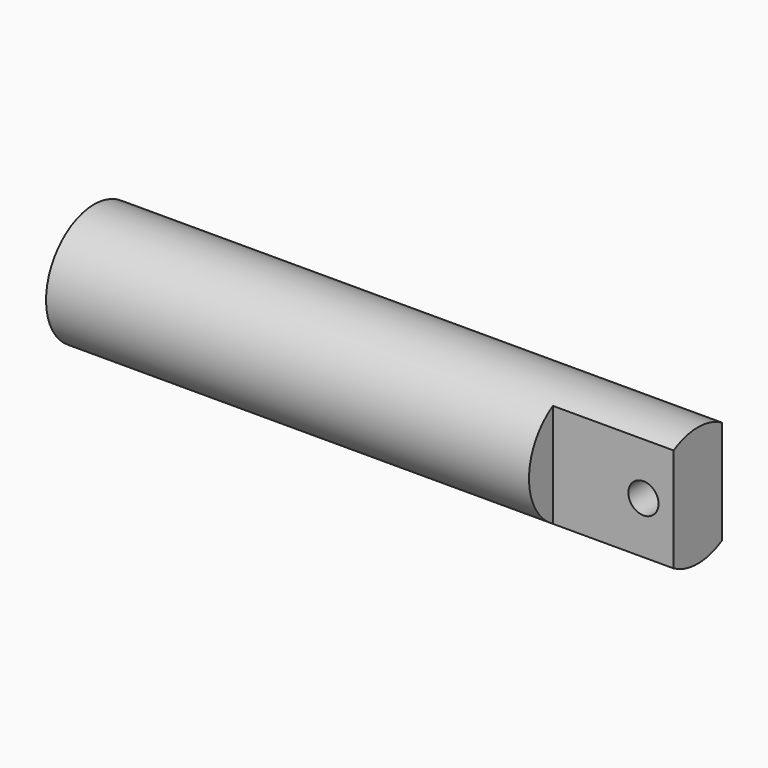
from build123d import *

# Parameters (mm, degrees)
F0_W     = 5
F0_H     = 0.4975
F5_DEPTH = 1
F6_R     = 0.125
F7_DEPTH = 25


with BuildPart() as f1:
    # F0 (on Front) → F1 (revolve)
    with BuildSketch(Plane.XZ):
        with Locations((2.5, 0.24875)):
            Rectangle(F0_W, F0_H)
    revolve(axis=Axis((2.5, 0, 0), (1, 0, 0)))

    # F2 (on Front) → F3 (revolve, cut)
    with BuildSketch(Plane.XZ):
        with BuildLine():
            Line((0, 0), (0.25, 0))
            ThreePointArc((0.25, 0), (-0.25, 0.5), (-0.75, 0))
            Line((-0.75, 0), (0, 0))
        make_face()
    revolve(axis=Axis((-0.25, 0, 0), (1, 0, 0)), mode=Mode.SUBTRACT)

    # F4 (on face) → F5 (cut)
    with BuildSketch(Plane.YZ.offset(5)):
        with BuildLine():
            ThreePointArc((-0.25, -0.4301235288), (-0.4975, 0), (-0.25, 0.4301235288))
            Line((-0.25, 0.4301235288), (-0.25, 1.0018141202))
            Line((-0.25, 1.0018141202), (-1.0779267388, 1.0018141202))
            Line((-1.0779267388, 1.0018141202), (-1.0779267388, -1.4443330893))
            Line((-1.0779267388, -1.4443330893), (-0.25, -1.4443330893))
            Line((-0.25, -1.4443330893), (-0.25, -0.4301235288))
        make_face()
        with BuildLine():
            Line((1.1376104712, 0.7514453044), (0.25, 0.7514453044))
            Line((0.25, 0.7514453044), (0.25, 0.4301235288))
            ThreePointArc((0.25, 0.4301235288), (0.4312083313, 0.2481242128), (0.4975, 0))
            ThreePointArc((0.4975, 0), (0.4312083313, -0.2481242128), (0.25, -0.4301235288))
            Line((0.25, -0.4301235288), (0.25, -1.0461523483))
            Line((0.25, -1.0461523483), (1.1376104712, -1.0461523483))
            Line((1.1376104712, -1.0461523483), (1.1376104712, 0.7514453044))
        make_face()
        with BuildLine():
            ThreePointArc((0.4975, 0), (0.4312083313, 0.2481242128), (0.25, 0.4301235288))
            Line((0.25, 0.4301235288), (0.25, -0.4301235288))
            ThreePointArc((0.25, -0.4301235288), (0.4312083313, -0.2481242128), (0.4975, 0))
        make_face()
        with BuildLine():
            Line((-0.25, -0.4301235288), (-0.25, 0.4301235288))
            ThreePointArc((-0.25, 0.4301235288), (-0.4975, 0), (-0.25, -0.4301235288))
        make_face()
    extrude(amount=-F5_DEPTH, mode=Mode.SUBTRACT)

    # F6 (on face) → F7 (cut)
    with BuildSketch(Plane.XZ.offset(0.25)):
        with Locations((4.75, 0)):
            Circle(F6_R)
    extrude(amount=-F7_DEPTH, mode=Mode.SUBTRACT)


solid = f1.part
